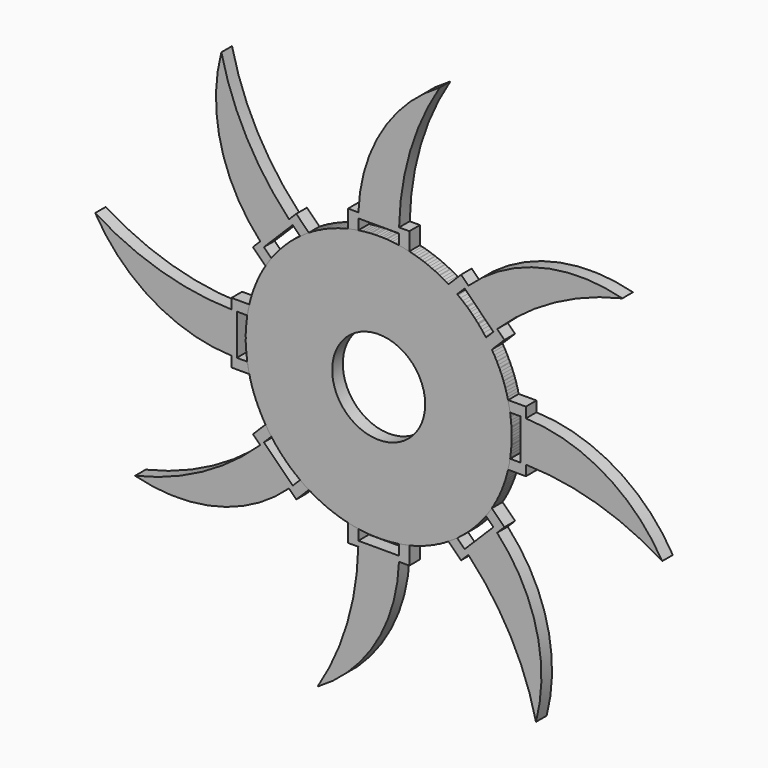
from build123d import *

# Parameters (mm, degrees)
F0_R     = 12.7
F1_DEPTH = 0.635
F3_DEPTH = 0.635
F4_COUNT = 8
F5_R     = 4.439905228
F6_DEPTH = 0.635


with BuildPart() as f1:
    # F0 (on Front) → F1 (new body, symmetric)
    with BuildSketch(Plane.XZ):
        Circle(F0_R)
    extrude(amount=F1_DEPTH, both=True)

    # F2 (on Front) → F3 (join, symmetric)
    with BuildSketch(Plane.XZ):
        with BuildLine():
            ThreePointArc((1.9490664869, 14.0524301678), (1.9453203714, 13.800252346), (1.9440716254, 13.5480497929))
            Line((1.9440716254, 13.5480497929), (1.9440716254, 11.2103040365))
            Line((1.9440716254, 11.2103040365), (-1.9440716254, 11.2103040365))
            Line((-1.9440716254, 11.2103040365), (-1.9440716254, 13.5480497929))
            ThreePointArc((-1.9440716254, 13.5480497929), (-1.9420379436, 13.8002727735), (-1.9359374271, 14.0524301678))
            Line((-1.9359374271, 14.0524301678), (-2.9274336994, 14.0524301678))
            Line((-2.9274336994, 14.0524301678), (-2.9274336994, 10.7059236616))
            Line((-2.9274336994, 10.7059236616), (2.9274336994, 10.7059236616))
            Line((2.9274336994, 10.7059236616), (2.9274336994, 14.0524301678))
            Line((2.9274336994, 14.0524301678), (1.9490664869, 14.0524301678))
        make_face()
        with BuildLine():
            Line((-1.9440716254, 13.5480497929), (1.9440716254, 13.5480497929))
            ThreePointArc((1.9440716254, 13.5480497929), (1.9453203714, 13.800252346), (1.9490664869, 14.0524301678))
            Line((1.9490664869, 14.0524301678), (-1.9359374271, 14.0524301678))
            ThreePointArc((-1.9359374271, 14.0524301678), (-1.9420379436, 13.8002727735), (-1.9440716254, 13.5480497929))
        make_face()
        with BuildLine():
            Line((-1.9359374271, 14.0524301678), (1.9490664869, 14.0524301678))
            ThreePointArc((1.9490664869, 14.0524301678), (3.0049526679, 20.8221748276), (5.8272827847, 27.0654745239))
            ThreePointArc((5.8272827847, 27.0654745239), (0.2647127685, 21.5617662603), (-1.9359374271, 14.0524301678))
        make_face()
    extrude(amount=F3_DEPTH, both=True)


with BuildPart() as f4_1:
    # F4: instance of F1
    add(f1.part.rotate(Axis((0, 0, 0), (0, -1, 0)), 1 * 360 / F4_COUNT))


with BuildPart() as f4_2:
    # F4: instance of F1
    add(f1.part.rotate(Axis((0, 0, 0), (0, -1, 0)), 2 * 360 / F4_COUNT))


with BuildPart() as f4_3:
    # F4: instance of F1
    add(f1.part.rotate(Axis((0, 0, 0), (0, -1, 0)), 3 * 360 / F4_COUNT))


with BuildPart() as f4_4:
    # F4: instance of F1
    add(f1.part.rotate(Axis((0, 0, 0), (0, -1, 0)), 4 * 360 / F4_COUNT))


with BuildPart() as f4_5:
    # F4: instance of F1
    add(f1.part.rotate(Axis((0, 0, 0), (0, -1, 0)), 5 * 360 / F4_COUNT))


with BuildPart() as f4_6:
    # F4: instance of F1
    add(f1.part.rotate(Axis((0, 0, 0), (0, -1, 0)), 6 * 360 / F4_COUNT))


with BuildPart() as f4_7:
    # F4: instance of F1
    add(f1.part.rotate(Axis((0, 0, 0), (0, -1, 0)), 7 * 360 / F4_COUNT))


with BuildPart() as f6_tool:
    # F5 (on Front) → F6 (new body, symmetric)
    with BuildSketch(Plane.XZ):
        Circle(F5_R)
    extrude(amount=F6_DEPTH, both=True)


with BuildPart() as f1_1:
    add(f1.part)

    # F6: cut by f6_tool
    add(f6_tool.part, mode=Mode.SUBTRACT)


with BuildPart() as f4_1_1:
    add(f4_1.part)

    # F6: cut by f6_tool
    add(f6_tool.part, mode=Mode.SUBTRACT)


with BuildPart() as f4_2_1:
    add(f4_2.part)

    # F6: cut by f6_tool
    add(f6_tool.part, mode=Mode.SUBTRACT)


with BuildPart() as f4_3_1:
    add(f4_3.part)

    # F6: cut by f6_tool
    add(f6_tool.part, mode=Mode.SUBTRACT)


with BuildPart() as f4_4_1:
    add(f4_4.part)

    # F6: cut by f6_tool
    add(f6_tool.part, mode=Mode.SUBTRACT)


with BuildPart() as f4_5_1:
    add(f4_5.part)

    # F6: cut by f6_tool
    add(f6_tool.part, mode=Mode.SUBTRACT)


with BuildPart() as f4_6_1:
    add(f4_6.part)

    # F6: cut by f6_tool
    add(f6_tool.part, mode=Mode.SUBTRACT)


with BuildPart() as f4_7_1:
    add(f4_7.part)

    # F6: cut by f6_tool
    add(f6_tool.part, mode=Mode.SUBTRACT)


solid = Compound([f1_1.part, f4_1_1.part, f4_2_1.part, f4_3_1.part, f4_4_1.part, f4_5_1.part, f4_6_1.part, f4_7_1.part])
